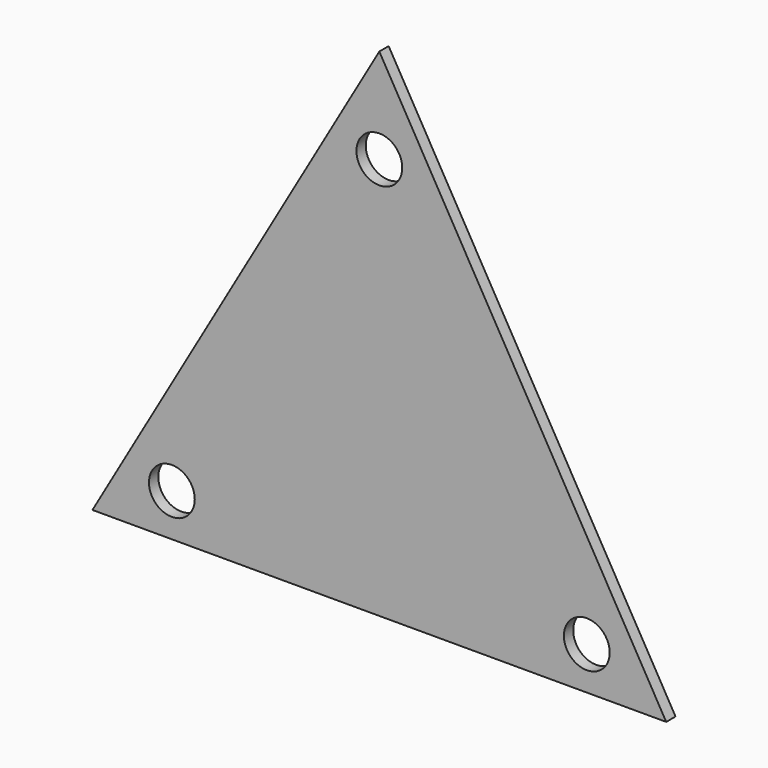
from build123d import *

# Parameters (mm, degrees)
F0_R     = 2.49232
F1_DEPTH = 1.27


with BuildPart() as f1:
    # F0 (on Front) → F1 (new body)
    with BuildSketch(Plane.XZ):
        Polygon((0, 54.086622), (-31.226926, 0), (31.226926, 0), align=None)
        with Locations((-22.580516, 4.635875)):
            Circle(F0_R, mode=Mode.SUBTRACT)
        with Locations((22.580516, 4.635875)):
            Circle(F0_R, mode=Mode.SUBTRACT)
        with Locations((0, 43.746475)):
            Circle(F0_R, mode=Mode.SUBTRACT)
    extrude(amount=F1_DEPTH)


solid = f1.part
